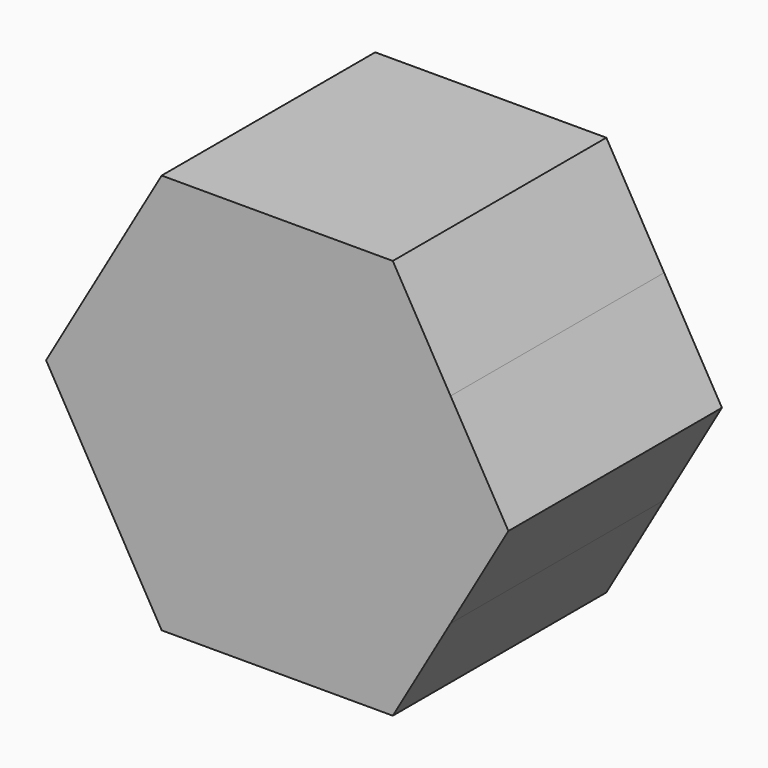
from build123d import *

# Parameters (mm, degrees)
F1_DEPTH = 40


with BuildPart() as f1:
    # F0 (on Front) → F1 (new body)
    with BuildSketch(Plane.XZ):
        with BuildLine():
            ThreePointArc((-9.81e-08, 30), (14.9999997194, 25.9807622755), (25.9807618386, 15.0000004762))
            Line((25.9807618386, 15.0000004762), (17.3205080757, 30))
            Line((17.3205080757, 30), (-9.81e-08, 30))
        make_face()
        with BuildLine():
            ThreePointArc((-25.9807619627, 15.0000002613), (-14.9999999118, 25.9807621644), (-9.81e-08, 30))
            Line((-9.81e-08, 30), (-17.3205080757, 30))
            Line((-17.3205080757, 30), (-25.9807619627, 15.0000002613))
        make_face()
        with BuildLine():
            ThreePointArc((-25.9807622875, -14.9999996987), (-30, 3.248e-07), (-25.9807619627, 15.0000002613))
            Line((-25.9807619627, 15.0000002613), (-34.6410161514, 0))
            Line((-34.6410161514, 0), (-25.9807622875, -14.9999996987))
        make_face()
        with BuildLine():
            Line((-17.3205080757, -30), (0, -30))
            ThreePointArc((0, -30), (-15.0000001506, -25.9807620266), (-25.9807622875, -14.9999996987))
            Line((-25.9807622875, -14.9999996987), (-17.3205080757, -30))
        make_face()
        with BuildLine():
            Line((17.3205080757, -30), (25.9807618386, -15.0000004762))
            ThreePointArc((25.9807618386, -15.0000004762), (14.9999997619, -25.980762251), (0, -30))
            Line((0, -30), (17.3205080757, -30))
        make_face()
        with BuildLine():
            ThreePointArc((25.9807618386, 15.0000004762), (28.9777747175, 7.7645716186), (30, 0))
            ThreePointArc((30, 0), (28.9777747175, -7.7645716186), (25.9807618386, -15.0000004762))
            Line((25.9807618386, -15.0000004762), (34.6410161514, 0))
            Line((34.6410161514, 0), (25.9807618386, 15.0000004762))
        make_face()
        with BuildLine():
            ThreePointArc((25.9807618386, -15.0000004762), (28.9777747175, -7.7645716186), (30, 0))
            ThreePointArc((30, 0), (28.9777747175, 7.7645716186), (25.9807618386, 15.0000004762))
            ThreePointArc((25.9807618386, 15.0000004762), (14.9999997194, 25.9807622755), (-9.81e-08, 30))
            ThreePointArc((-9.81e-08, 30), (-14.9999999118, 25.9807621644), (-25.9807619627, 15.0000002613))
            ThreePointArc((-25.9807619627, 15.0000002613), (-30, 3.248e-07), (-25.9807622875, -14.9999996987))
            ThreePointArc((-25.9807622875, -14.9999996987), (-15.0000001506, -25.9807620266), (0, -30))
            ThreePointArc((0, -30), (14.9999997619, -25.980762251), (25.9807618386, -15.0000004762))
        make_face()
    extrude(amount=-F1_DEPTH)


solid = f1.part
